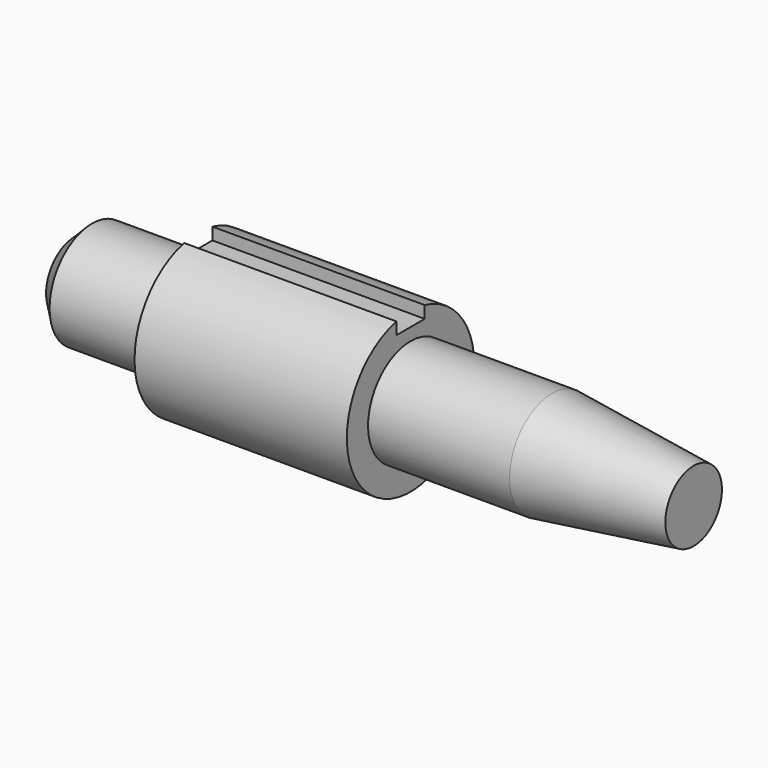
from build123d import *

# Parameters (mm, degrees)
F4_DEPTH = 60


with BuildPart() as f2:
    # F0 (on Front) → F2 (revolve)
    with BuildSketch(Plane.XZ):
        Polygon((0, 15), (0, 0), (175, 0), (175, 10), (135, 15), (95, 15), (95, 22.5), (35, 22.5), (35, 15), align=None)
    revolve(axis=Axis((109.590694, 0, 0), (1, 0, 0)))

    # F3 (on face) → F4 (cut, through all)
    with BuildSketch(Plane.YZ.offset(95)):
        with BuildLine():
            ThreePointArc((5, 21.937411), (2.515776, 22.35891), (0, 22.5))
            ThreePointArc((0, 22.5), (-2.515776, 22.35891), (-5, 21.937411))
            Line((-5, 21.937411), (-5, 18.5))
            Line((-5, 18.5), (5, 18.5))
            Line((5, 18.5), (5, 21.937411))
        make_face()
    extrude(amount=-F4_DEPTH, mode=Mode.SUBTRACT)

    # F5 (on Front) → F6 (revolve, cut)
    with BuildSketch(Plane.XZ):
        Polygon((5, 15), (0, 15), (0, 10), align=None)
    revolve(axis=Axis((109.590694, 0, 0), (1, 0, 0)), mode=Mode.SUBTRACT)


solid = f2.part
